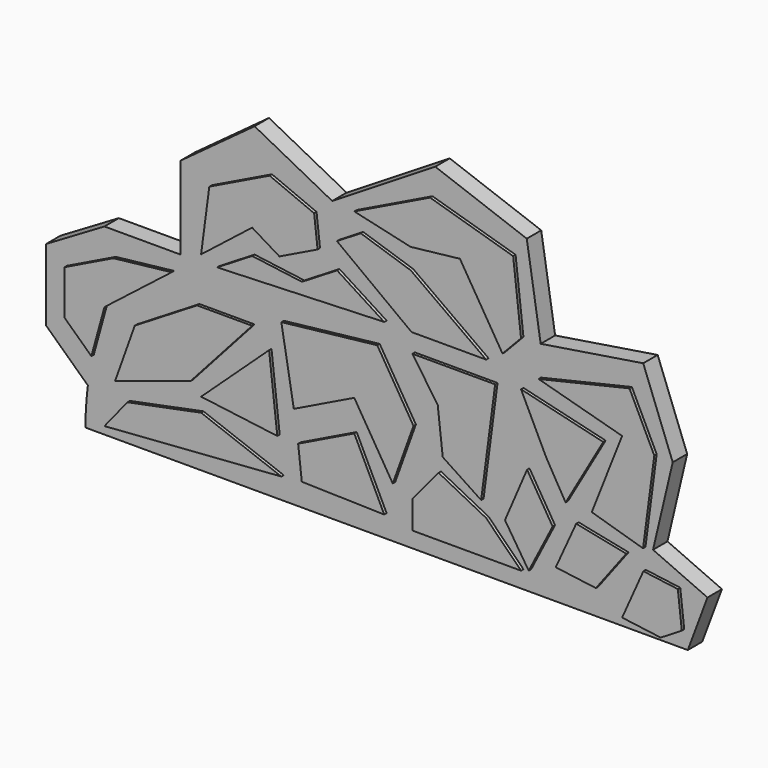
from build123d import *

# Parameters (mm, degrees)
F1_DEPTH = 3
F3_DEPTH = 0.5


with BuildPart() as f1:
    # F0 (on Front) → F1 (new body)
    with BuildSketch(Plane.XZ):
        with BuildLine():
            ThreePointArc((-49.601689, 6.298609), (-49.900323, 3.155595), (-50, 0))
            Line((-50, 0), (50, 0))
            Line((50, 0), (53.269234, 8.75))
            Line((53.269234, 8.75), (44.23077, 12.788462))
            Line((44.23077, 12.788462), (47.500003, 26.634617))
            Line((47.500003, 26.634617), (42.601875, 39.515073))
            Line((42.601875, 39.515073), (25.576925, 36.826923))
            Line((25.576925, 36.826923), (23.269232, 51.44231))
            Line((23.269232, 51.44231), (8.076922, 57.019234))
            Line((8.076922, 57.019234), (-9.038462, 46.442311))
            Line((-9.038462, 46.442311), (-21.923078, 53.17308))
            Line((-21.923078, 53.17308), (-34.230769, 44.134621))
            Line((-34.230769, 44.134621), (-34.230769, 30.420949))
            Line((-34.230769, 30.420949), (-46.853391, 30.420949))
            Line((-46.853391, 30.420949), (-56.538463, 24.71154))
            Line((-56.538463, 24.71154), (-56.538463, 12.788462))
            Line((-56.538463, 12.788462), (-49.601689, 6.298609))
        make_face()
    extrude(amount=F1_DEPTH)

    # F2 (on face) → F3 (join)
    with BuildSketch(Plane.XZ.offset(3)):
        Polygon((-53.070076, 15.257269), (-48.621472, 11.095279), (-46.445761, 18.982239), (-35.295229, 27.685093), (-44.949956, 26.597237), (-53.070076, 22.653757), align=None)
        Polygon((-29.040052, 42.235177), (-30.399874, 31.900536), (-21.923078, 38.563661), (-17.39964, 35.819323), (-11.0592, 38.898515), (-11.634346, 44.002943), (-19.030639, 47.09618), align=None)
        Polygon((7.616132, 52.555275), (-4.971225, 46.442311), (4.379547, 44.303863), (12.570463, 45.226783), (19.641532, 33.668306), (22.715791, 36.895224), (21.409299, 48.490353), align=None)
        Polygon((40.718757, 35.436071), (25.624743, 31.900536), (39.494917, 28.09304), (34.463577, 15.310723), (42.973845, 12.788462), (44.837793, 26.95446), align=None)
        Polygon((48.750002, 8.710921), (43.030452, 9.463494), (39.500919, 1.540576), (45.901778, 0.698357), (49.410935, 2.845136), align=None)
        Polygon((35.143491, 4.432157), (40.174823, 11.095279), (31.879921, 12.788462), (28.481199, 5.308775), align=None)
        Polygon((26.872491, 20.893696), (30.112153, 15.310723), (36.367327, 26.18929), (22.715791, 29.45286), align=None)
        Polygon((4.547521, 31.900536), (16.921889, 31.900536), (4.411539, 40.875357), (-3.883368, 43.594997), (-7.848335, 41.16937), align=None)
        Polygon((-27.739104, 30.859229), (0, 31.900536), (-7.826848, 36.895224), (-13.655543, 33.329433), (-21.923078, 34.417268), align=None)
        Polygon((-41.414421, 17.894384), (-44.677991, 8.75), (-32.16764, 12.788462), (-21.923078, 24.215545), (-31.081754, 24.215545), align=None)
        Polygon((-1.151366, 28.119329), (-17.073629, 26.325272), (-15.014787, 14.319498), (-4.971225, 19.197085), (1.419934, 8.75), (4.85837, 18.295721), align=None)
        Polygon((-19.11336, 21.565899), (-30.399874, 11.095279), (-17.74971, 9.463494), align=None)
        Polygon((18.417694, 28.77295), (4.683502, 28.77295), (8.887457, 22.653757), (9.71484, 15.310723), (16.091682, 11.095279), align=None)
        Polygon((23.720995, 18.030366), (20.049477, 9.463494), (23.992959, 3.3443), (27.963636, 11.095279), align=None)
        Polygon((9.034931, 12.788462), (4.683502, 7.559745), (4.683502, 2.936354), (22.715791, 2.936354), (16.921889, 8.75), align=None)
        Polygon((-13.684647, 4.099629), (0, 3.752247), (-4.971225, 13.98862), (-14.289026, 9.463494), align=None)
        Polygon((-46.445761, 1.576533), (-17.073629, 3.752247), (-30.399874, 8.75), (-42.638261, 6.298609), align=None)
    extrude(amount=F3_DEPTH)


solid = f1.part
